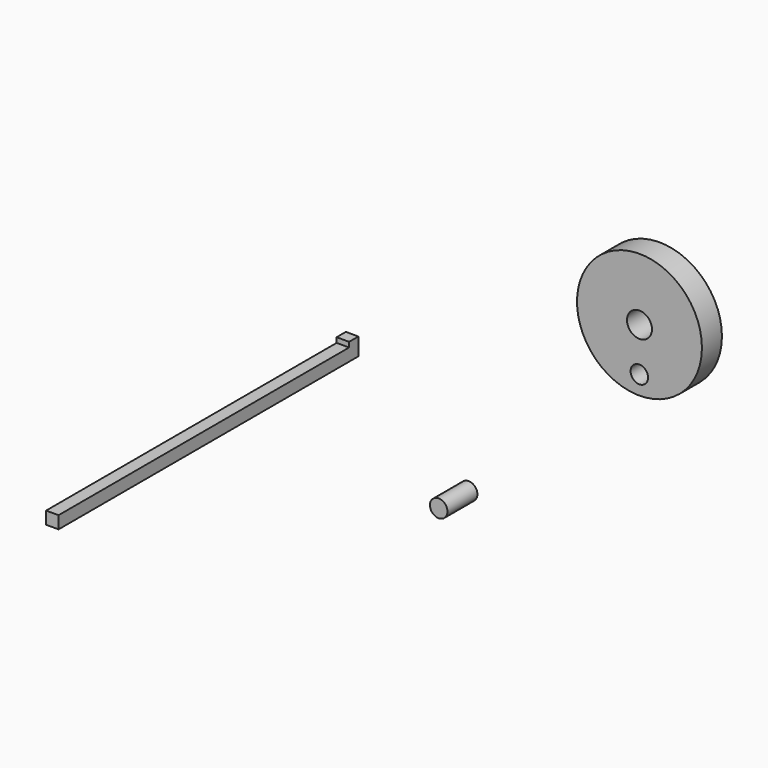
from build123d import *

# Parameters (mm, degrees)
F0_R      = 12.5
F1_DEPTH  = 5
F2_D      = 5
F2_DEPTH  = 5
F2_TIP    = 1.5021515476
F4_D      = 3.5
F4_DEPTH  = 5
F4_TIP    = 1.0515060833
F5_R      = 1.75
F6_DEPTH  = 7.5
F7_W      = 2.5
F7_H      = 2.5
F8_DEPTH  = 75
F9_W      = 2.5
F9_H      = 2.3198798299
F10_DEPTH = 1


with BuildPart() as f1:
    # F0 (on Front) → F1 (new body)
    with BuildSketch(Plane.XZ):
        with Locations((23.1283046305, 24.098623544)):
            Circle(F0_R)
    extrude(amount=F1_DEPTH)

    # F2
    with Locations(Plane(origin=(0, 0, 0), x_dir=(1, 0, 0), z_dir=(0, 1, 0))):
        with Locations((23.1283046305, -24.098623544)):
            Hole(F2_D / 2, depth=F2_DEPTH)
            with Locations((0, 0, -(F2_DEPTH + F2_TIP / 2))):  # 118° drill point
                Cone(0, F2_D / 2, F2_TIP, mode=Mode.SUBTRACT)

    # F4
    with Locations(Plane(origin=(0, 0, 0), x_dir=(1, 0, 0), z_dir=(0, 1, 0))):
        with Locations((23.1047105044, -15.3335866332)):
            Hole(F4_D / 2, depth=F4_DEPTH)
            with Locations((0, 0, -(F4_DEPTH + F4_TIP / 2))):  # 118° drill point
                Cone(0, F4_D / 2, F4_TIP, mode=Mode.SUBTRACT)


with BuildPart() as f6:
    # F5 (on Front) → F6 (new body)
    with BuildSketch(Plane.XZ):
        with Locations((-15.0553602725, -19.6533743292)):
            Circle(F5_R)
    extrude(amount=F6_DEPTH)


with BuildPart() as f8:
    # F7 (on Front) → F8 (new body)
    with BuildSketch(Plane.XZ):
        with Locations((-38.379817009, -1.8555561267)):
            Rectangle(F7_W, F7_H)
    extrude(amount=F8_DEPTH)

    # F9 (on face) → F10 (join)
    with BuildSketch(Plane.XY.offset(-0.6055561267)):
        with Locations((-38.379817009, -1.1599399149)):
            Rectangle(F9_W, F9_H)
    extrude(amount=F10_DEPTH)


solid = Compound([f1.part, f6.part, f8.part])
